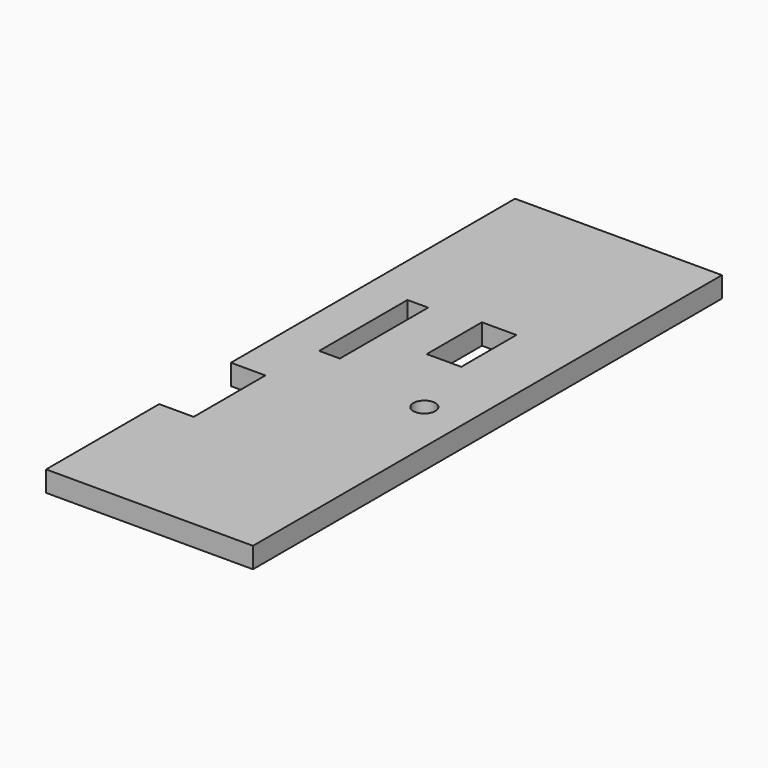
from build123d import *

# Parameters (mm, degrees)
CYLINDER026_R           = 1.6
CYLINDER026_DEPTH       = 10
CYLINDER026_PITCH_ANGLE = 90
BOX008_W                = 17
BOX008_H                = 10
BOX008_DEPTH            = 5
BOX019_W                = 6
BOX019_H                = 16
BOX019_DEPTH            = 3
BOX007_W                = 17
BOX007_H                = 13
BOX007_DEPTH            = 10
BOX002_W                = 3
BOX002_H                = 85
BOX002_DEPTH            = 30
CUT027_PITCH_ANGLE      = -90


with BuildPart() as front_hole:
    # Cylinder026 → Cylinder026 (new body)
    with BuildSketch(Plane.XY):
        Circle(CYLINDER026_R)
    extrude(amount=CYLINDER026_DEPTH)


with BuildPart() as front_hole_1:
    # Cylinder026 pitch: moved
    add(front_hole.part.rotate(Axis((0, 0, 0), (0, 1, 0)), CYLINDER026_PITCH_ANGLE))


with BuildPart() as front_hole_2:
    # Cylinder026 placement: moved
    add(front_hole_1.part.moved(Location((-7.4, 38.69, -18.9))))


with BuildPart() as usb_connector002:
    # Box008 → Box008 (new body)
    with BuildSketch(Plane(origin=(-11, 49, -16), x_dir=(1, 0, 0), z_dir=(0, 0, 1))):
        with Locations((8.5, 5)):
            Rectangle(BOX008_W, BOX008_H)
    extrude(amount=BOX008_DEPTH)


with BuildPart() as sd_card_reader:
    # Box019 → Box019 (new body)
    with BuildSketch(Plane(origin=(-8, 42, -4), x_dir=(1, 0, 0), z_dir=(0, 0, 1))):
        with Locations((3, 8)):
            Rectangle(BOX019_W, BOX019_H)
    extrude(amount=BOX019_DEPTH)


with BuildPart() as fusion:
    # Box007 → Box007 (new body)
    with BuildSketch(Plane(origin=(-11, 20.5, 0), x_dir=(1, 0, 0), z_dir=(0, 0, 1))):
        with Locations((8.5, 6.5)):
            Rectangle(BOX007_W, BOX007_H)
    extrude(amount=BOX007_DEPTH)

    # Fusion: union USB connector002, SD card reader
    add(usb_connector002.part)
    add(sd_card_reader.part)


with BuildPart() as final_front:
    # Box002 → Box002 (new body)
    with BuildSketch(Plane(origin=(-5, 0, -25), x_dir=(1, 0, 0), z_dir=(0, 0, 1))):
        with Locations((1.5, 42.5)):
            Rectangle(BOX002_W, BOX002_H)
    extrude(amount=BOX002_DEPTH)

    # Cut: cut Fusion
    add(fusion.part, mode=Mode.SUBTRACT)

    # Cut027: cut front hole
    add(front_hole_2.part, mode=Mode.SUBTRACT)


with BuildPart() as final_front_1:
    # Cut027 pitch: moved
    add(final_front.part.rotate(Axis((0, 0, 0), (0, 1, 0)), CUT027_PITCH_ANGLE))


with BuildPart() as final_front_2:
    # Cut027 placement: moved
    add(final_front_1.part.moved(Location((-41, 0, 5))))


solid = final_front_2.part
